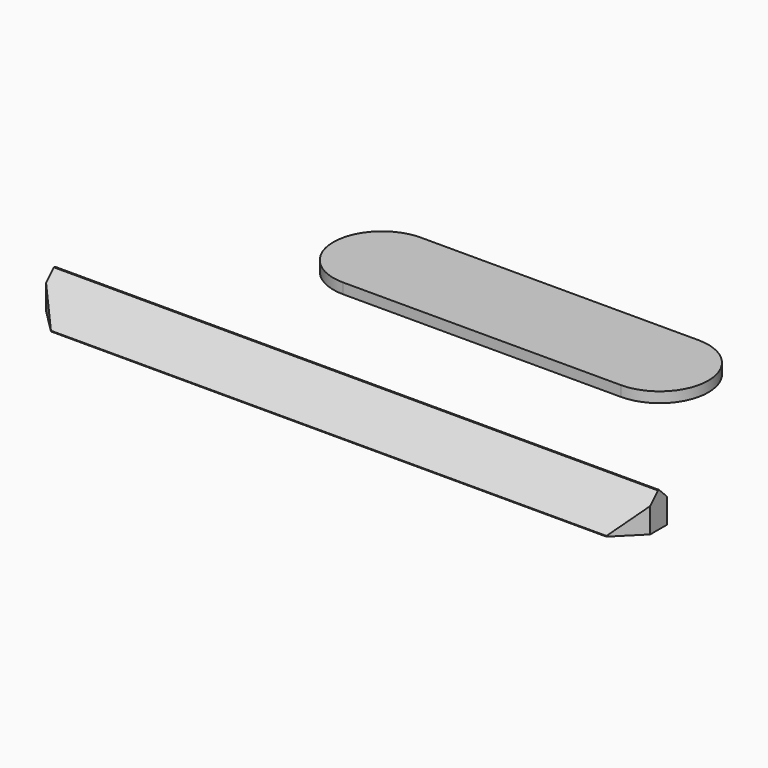
from build123d import *

# Parameters (mm, degrees)
PAD_DEPTH    = 1.5
PAD001_DEPTH = 5
CHAMFER_SIZE = 4.9


with BuildPart() as pad:
    # Sketch → Pad (new body)
    with BuildSketch(Plane.XY):
        with BuildLine():
            ThreePointArc((-20, 36.592062), (-27, 29.592062), (-20, 22.592062))
            Line((-20, 22.592062), (20, 22.592062))
            ThreePointArc((20, 22.592062), (27, 29.592062), (20, 36.592062))
            Line((-20, 36.592062), (20, 36.592062))
        make_face()
    extrude(amount=PAD_DEPTH)


with BuildPart() as chamfer_body:
    # Sketch001 → Pad001 (new body)
    with BuildSketch(Plane.XY):
        Polygon((-40, 5), (40, 5), (43.5, 1.5), (43.5, -1.5), (40, -5), (-40, -5), (-43.5, -1.5), (-43.5, 1.5), align=None)
    extrude(amount=PAD001_DEPTH)

    # Chamfer
    chamfer_edges = [chamfer_body.edges().sort_by_distance(p)[0] for p in [
        (0, 5, 5),
        (0, -5, 5),
    ]]
    chamfer(chamfer_edges, length=CHAMFER_SIZE)


solid = Compound([pad.part, chamfer_body.part])
